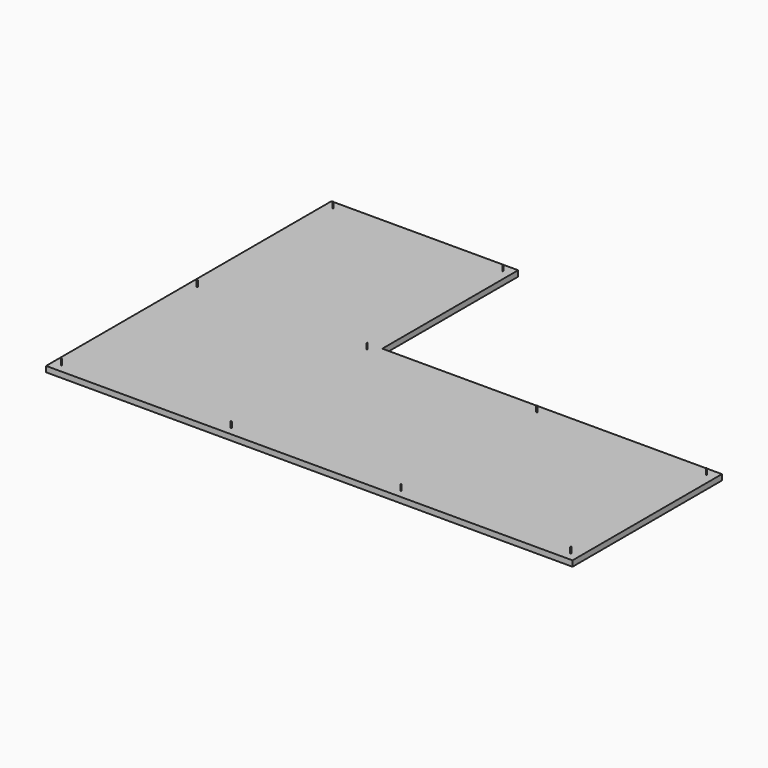
from build123d import *

# Parameters (mm, degrees)
F1_DEPTH = 100
F2_R     = 8
F3_DEPTH = 100


with BuildPart() as f1:
    # F0 (on Top) → F1 (new body)
    with BuildSketch(Plane.XY):
        Polygon((-150, 6150), (-150, -150), (9150, -150), (9150, 3150), (3150, 3150), (3150, 6150), align=None)
    extrude(amount=F1_DEPTH)

    # F2 (on face) → F3 (join)
    with BuildSketch(Plane.XY.offset(100)):
        with Locations((9000, 0)):
            Circle(F2_R)
        with Locations((9000, 3000)):
            Circle(F2_R)
        with Locations((6000, 0)):
            Circle(F2_R)
        with Locations((6000, 3000)):
            Circle(F2_R)
        with Locations((3000, 0)):
            Circle(F2_R)
        with Locations((3000, 3000)):
            Circle(F2_R)
        Circle(F2_R)
        with Locations((0, 3000)):
            Circle(F2_R)
        with Locations((3000, 6000)):
            Circle(F2_R)
        with Locations((0, 6000)):
            Circle(F2_R)
    extrude(amount=F3_DEPTH)


solid = f1.part
